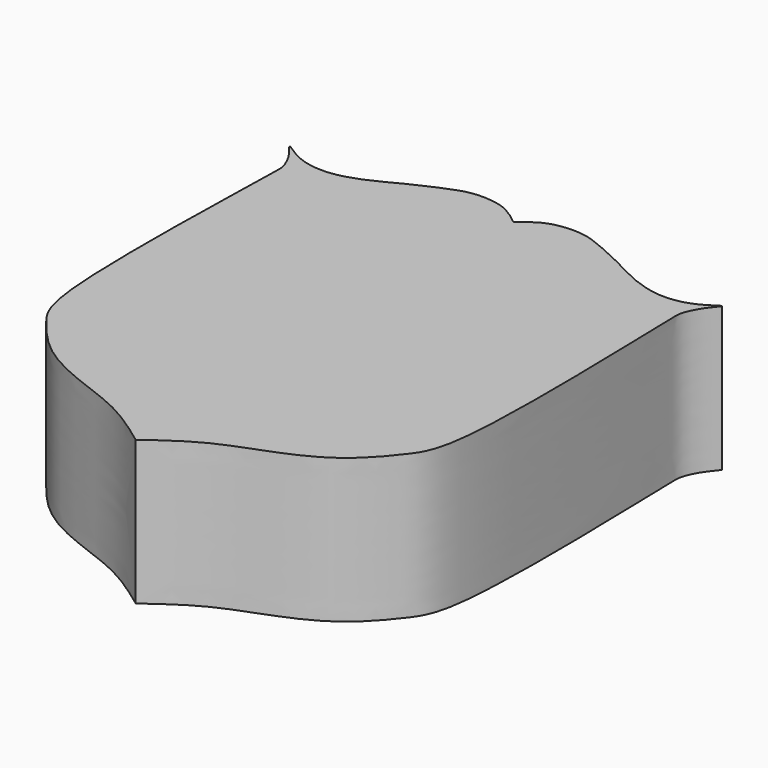
from build123d import *

# Parameters (mm, degrees)
F2_DEPTH = 12.7


with BuildPart() as f2:
    # F1 (on face) → F2 (new body)
    with BuildSketch(Plane.XY):
        with BuildLine():
            add(Edge.make_bspline(
                [(0, 20.0873147696), (0.2578232743, 20.3228130184), (1.0356900256, 20.8948296385), (2.1976543321, 21.5460197196), (4.0470835132, 21.7637561615), (5.6174846276, 21.5459309367), (7.5096146046, 20.7279096921), (9.261325686, 19.9424701729), (11.4828894328, 18.6961573222), (13.5579044814, 17.9692753894), (15.1356462575, 17.7916608026), (16.824996192, 18.018763986), (18.1347417146, 18.6704911259), (19.4554486161, 19.6164427806), (18.131075258, 18.1760528838), (17.4821240435, 16.6862315002), (17.4286318686, 15.303209066), (18.3069011011, -8.0961561875), (15.97944199, -11.4909502621), (13.1106444471, -14.8424928843), (9.114232312, -16.9077134408), (4.0399808292, -18.5258149024), (1.3263828332, -20.5226289125), (0, -21.4986540377)],
                knots=[0, 0, 0, 0, 0.0323491832, 0.0660180334, 0.1046003592, 0.1410776519, 0.1818141846, 0.2221543327, 0.2681965303, 0.3108661381, 0.3468771795, 0.383768835, 0.4208809872, 0.4480205756, 0.4801992031, 0.516706578, 0.5522461998, 0.6895608499, 0.7512715161, 0.8082043823, 0.8693962147, 0.9356777173, 1, 1, 1, 1], degree=3))
            add(Edge.make_bspline(
                [(0, 20.0873147696), (-0.2578232743, 20.3228130184), (-1.0356900256, 20.8948296385), (-2.1976543321, 21.5460197196), (-4.0470835132, 21.7637561615), (-5.6174846276, 21.5459309367), (-7.5096146046, 20.7279096921), (-9.261325686, 19.9424701729), (-11.4828894328, 18.6961573222), (-13.5579044814, 17.9692753894), (-15.1356462575, 17.7916608026), (-16.824996192, 18.018763986), (-18.1347417146, 18.6704911259), (-19.4554486161, 19.6164427806), (-18.131075258, 18.1760528838), (-17.4821240435, 16.6862315002), (-17.4286318686, 15.303209066), (-18.3069011011, -8.0961561875), (-15.97944199, -11.4909502621), (-13.1106444471, -14.8424928843), (-9.114232312, -16.9077134408), (-4.0399808292, -18.5258149024), (-1.3263828332, -20.5226289125), (0, -21.4986540377)],
                knots=[0, 0, 0, 0, 0.0323491832, 0.0660180334, 0.1046003592, 0.1410776519, 0.1818141846, 0.2221543327, 0.2681965303, 0.3108661381, 0.3468771795, 0.383768835, 0.4208809872, 0.4480205756, 0.4801992031, 0.516706578, 0.5522461998, 0.6895608499, 0.7512715161, 0.8082043823, 0.8693962147, 0.9356777173, 1, 1, 1, 1], degree=3))
        make_face()
    extrude(amount=F2_DEPTH)


solid = f2.part
